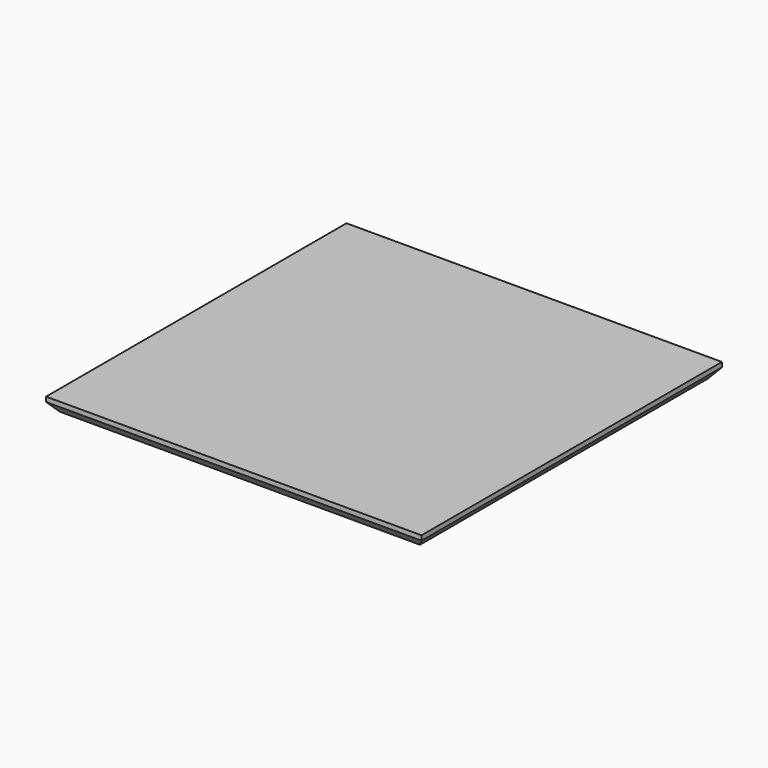
from build123d import *

# Parameters (mm, degrees)
F0_W      = 590
F0_H      = 590
F1_DEPTH  = 22
F7_DEPTH  = 590.001
F8_DEPTH  = 590.001
F9_DEPTH  = 590.001
F10_DEPTH = 590.001
F11_W     = 50
F11_H     = 50
F12_DEPTH = 10


with BuildPart() as f1:
    # F0 (on Top) → F1 (new body)
    with BuildSketch(Plane.XY):
        with Locations((295, 295)):
            Rectangle(F0_W, F0_H)
    extrude(amount=F1_DEPTH)

    # F3 (on face) → F7 (cut, through all)
    with BuildSketch(Plane.XZ):
        Polygon((0, 14.5), (0, 0), (12.1669, 0), align=None)
    extrude(amount=-F7_DEPTH, mode=Mode.SUBTRACT)

    # F4 (on face) → F8 (cut, through all)
    with BuildSketch(Plane.YZ.offset(590)):
        Polygon((0, 14.5), (0, 0), (12.1669, 0), align=None)
    extrude(amount=-F8_DEPTH, mode=Mode.SUBTRACT)

    # F5 (on face) → F9 (cut, through all)
    with BuildSketch(Plane(origin=(0, 0, 0), x_dir=(0, -1, 0), z_dir=(-1, 0, 0))):
        Polygon((-590, 14.5), (-590, 0), (-577.8331, 0), align=None)
    extrude(amount=-F9_DEPTH, mode=Mode.SUBTRACT)

    # F6 (on face) → F10 (cut, through all)
    with BuildSketch(Plane(origin=(0, 590, 0), x_dir=(-1, 0, 0), z_dir=(0, 1, 0))):
        Polygon((-590, 14.5), (-590, 0), (-577.8331, 0), align=None)
    extrude(amount=-F10_DEPTH, mode=Mode.SUBTRACT)

    # F11 (on face) → F12 (cut)
    with BuildSketch(Plane(origin=(0, 0, 0), x_dir=(1, 0, 0), z_dir=(0, 0, -1))):
        with Locations((44.9669, -44.9669)):
            Rectangle(F11_W, F11_H)
        with Locations((545.0331, -44.9669)):
            Rectangle(F11_W, F11_H)
        with Locations((44.9669, -545.0331)):
            Rectangle(F11_W, F11_H)
        with Locations((545.0331, -545.0331)):
            Rectangle(F11_W, F11_H)
    extrude(amount=-F12_DEPTH, mode=Mode.SUBTRACT)


solid = f1.part
